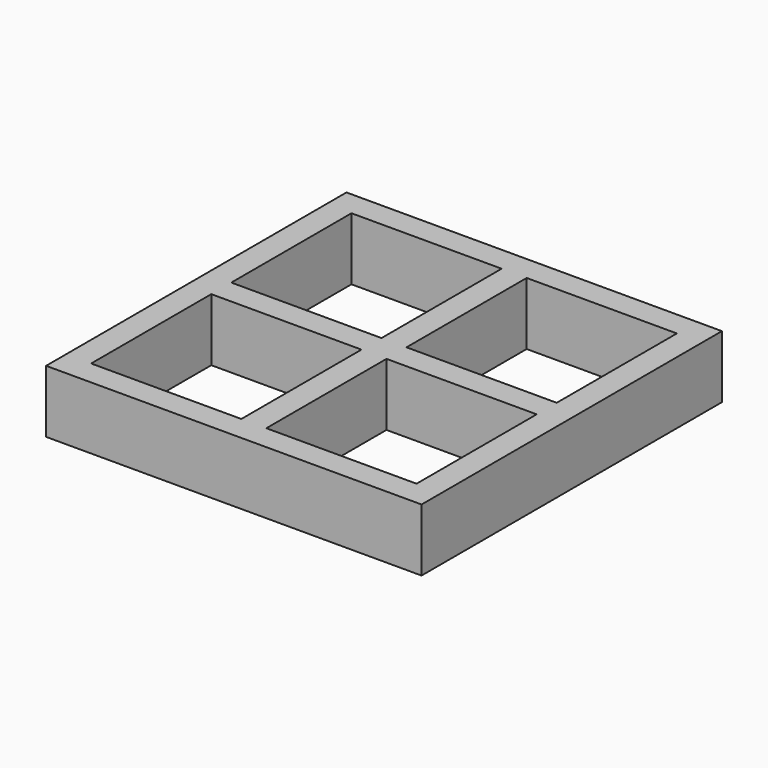
from build123d import *

# Parameters (mm, degrees)
F0_W     = 150
F0_H     = 150
F0_W_2   = 10
F0_H_2   = 60
F0_W_3   = 60
F0_H_3   = 10
F1_DEPTH = 25


with BuildPart() as f1:
    # F0 (on Top) → F1 (new body)
    with BuildSketch(Plane.XY):
        Rectangle(F0_W, F0_H)
        Polygon((5, 65), (65, 65), (65, 5), (65, -5), (65, -65), (5, -65), (-5, -65), (-65, -65), (-65, -5), (-65, 5), (-65, 65), (-5, 65), align=None, mode=Mode.SUBTRACT)
        with Locations((0, 35)):
            Rectangle(F0_W_2, F0_H_2)
        with Locations((-35, 0)):
            Rectangle(F0_W_3, F0_H_3)
        Rectangle(F0_W_2, F0_H_3)
        with Locations((35, 0)):
            Rectangle(F0_W_3, F0_H_3)
        with Locations((0, -35)):
            Rectangle(F0_W_2, F0_H_2)
    extrude(amount=F1_DEPTH)


solid = f1.part
